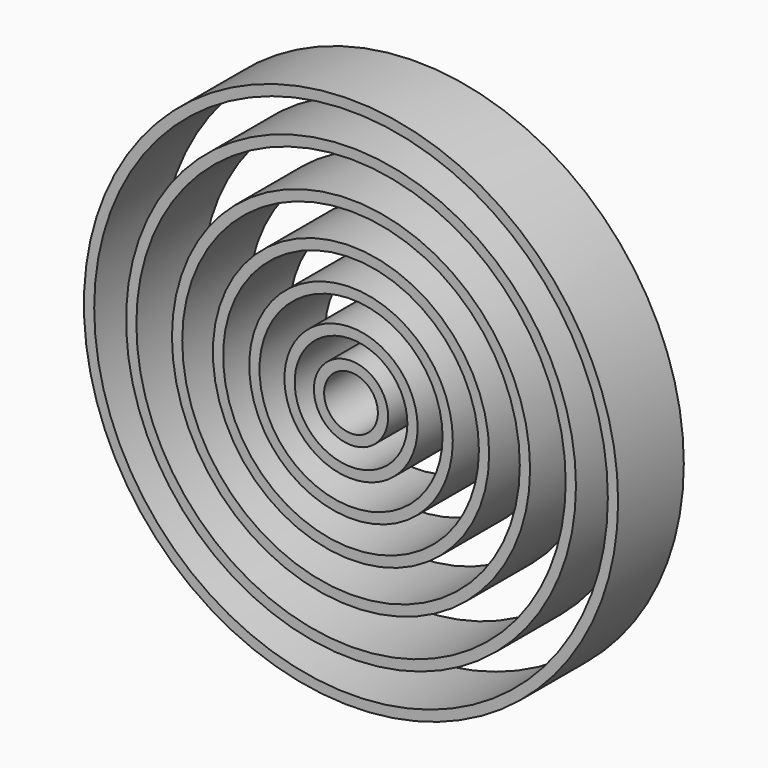
from build123d import *

# Parameters (mm, degrees)
F0_R      = 65.045609
F1_DEPTH  = 10
F2_T      = -2.5
F3_R      = 54.778728
F4_DEPTH  = 10
F5_T      = -2.5
F6_R      = 43.606832
F7_DEPTH  = 10
F8_T      = -2.5
F9_R      = 33.644371
F10_DEPTH = 10
F11_T     = -2.5
F12_R     = 24.790235
F13_DEPTH = 10
F14_T     = -2.5
F15_R     = 16.221031
F16_DEPTH = 10
F17_T     = -2.5
F18_R     = 9.04343
F19_DEPTH = 10
F20_T     = -2.5


with BuildPart() as f1:
    # F0 (on Front) → F1 (new body, symmetric)
    with BuildSketch(Plane.XZ):
        Circle(F0_R)
    extrude(amount=F1_DEPTH, both=True)

    # F2
    f2_openings = [f1.faces().sort_by_distance(p)[0] for p in [
        (0, -10, 0),
        (0, 10, 0),
    ]]
    offset(amount=F2_T, openings=f2_openings)


with BuildPart() as f4:
    # F3 (on Front) → F4 (new body, symmetric)
    with BuildSketch(Plane.XZ):
        Circle(F3_R)
    extrude(amount=F4_DEPTH, both=True)

    # F5
    f5_openings = [f4.faces().sort_by_distance(p)[0] for p in [
        (0, -10, 0),
        (0, 10, 0),
    ]]
    offset(amount=F5_T, openings=f5_openings)


with BuildPart() as f7:
    # F6 (on Front) → F7 (new body, symmetric)
    with BuildSketch(Plane.XZ):
        Circle(F6_R)
    extrude(amount=F7_DEPTH, both=True)

    # F8
    f8_openings = [f7.faces().sort_by_distance(p)[0] for p in [
        (0, -10, 0),
        (0, 10, 0),
    ]]
    offset(amount=F8_T, openings=f8_openings)


with BuildPart() as f10:
    # F9 (on Front) → F10 (new body, symmetric)
    with BuildSketch(Plane.XZ):
        Circle(F9_R)
    extrude(amount=F10_DEPTH, both=True)

    # F11
    f11_openings = [f10.faces().sort_by_distance(p)[0] for p in [
        (0, -10, 0),
        (0, 10, 0),
    ]]
    offset(amount=F11_T, openings=f11_openings)


with BuildPart() as f13:
    # F12 (on Front) → F13 (new body, symmetric)
    with BuildSketch(Plane.XZ):
        Circle(F12_R)
    extrude(amount=F13_DEPTH, both=True)

    # F14
    f14_openings = [f13.faces().sort_by_distance(p)[0] for p in [
        (0, -10, 0),
        (0, 10, 0),
    ]]
    offset(amount=F14_T, openings=f14_openings)


with BuildPart() as f16:
    # F15 (on Front) → F16 (new body, symmetric)
    with BuildSketch(Plane.XZ):
        Circle(F15_R)
    extrude(amount=F16_DEPTH, both=True)

    # F17
    f17_openings = [f16.faces().sort_by_distance(p)[0] for p in [
        (0, -10, 0),
        (0, 10, 0),
    ]]
    offset(amount=F17_T, openings=f17_openings)


with BuildPart() as f19:
    # F18 (on Front) → F19 (new body, symmetric)
    with BuildSketch(Plane.XZ):
        Circle(F18_R)
    extrude(amount=F19_DEPTH, both=True)

    # F20
    f20_openings = [f19.faces().sort_by_distance(p)[0] for p in [
        (0, -10, 0),
        (0, 10, 0),
    ]]
    offset(amount=F20_T, openings=f20_openings)


solid = Compound([f1.part, f4.part, f7.part, f10.part, f13.part, f16.part, f19.part])
